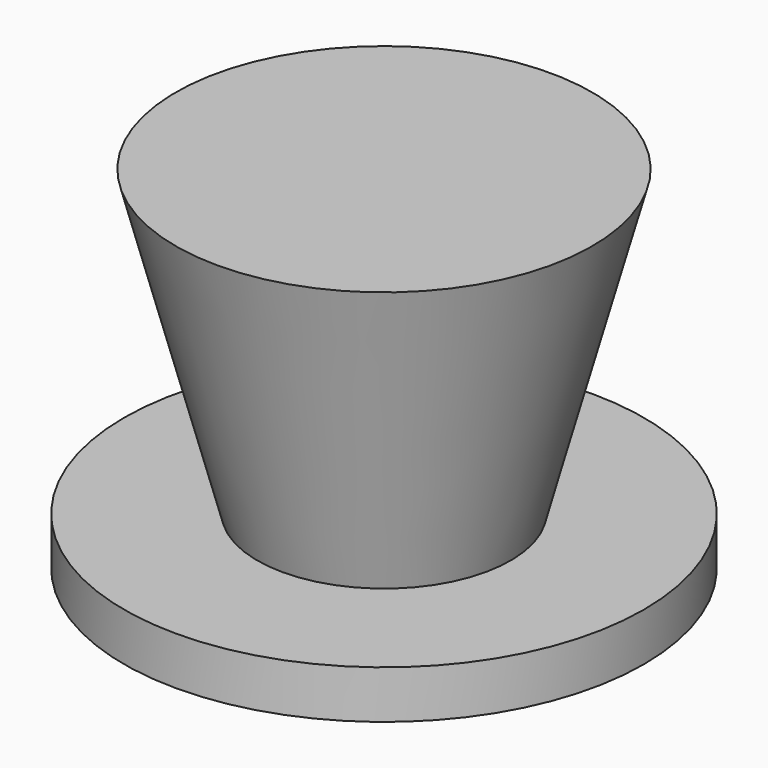
from build123d import *


with BuildPart() as f1:
    # F0 (on Right) → F1 (revolve)
    with BuildSketch(Plane.YZ):
        Polygon((-9.215098, 3.495687), (0, 3.495687), (0, 25.535706), (-15.138734, 25.535706), align=None)
        Polygon((-18.891554, 0), (0, 0), (0, 3.495687), (-9.215098, 3.495687), (-18.891554, 3.495687), align=None)
    revolve(axis=Axis((0, 0, 14.515697), (0, 0, -1)))


solid = f1.part
